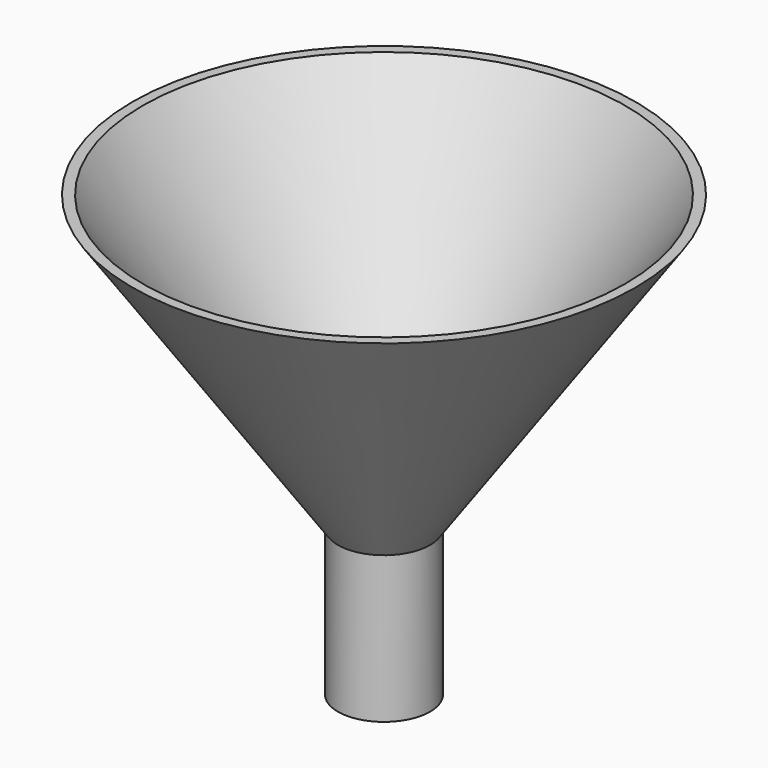
from build123d import *

# Parameters (mm, degrees)
F0_R     = 60
F2_R     = 11
F4_DEPTH = 35
F5_T     = -2


with BuildPart() as f3:
    # F0 (on Top) → F3 section 0
    with BuildSketch(Plane.XY):
        Circle(F0_R)
    # F2 (on offset) → F3 section 1
    with BuildSketch(Plane.XY.offset(-70)):
        Circle(F2_R)
    loft()

    # F4 (add): a face of the model
    f4_faces = [f3.faces().sort_by_distance(p)[0] for p in [
        (0, 0, -70),
    ]]
    extrude(f4_faces, amount=F4_DEPTH)

    # F5
    f5_openings = [f3.faces().sort_by_distance(p)[0] for p in [
        (0, 0, 0),
        (0, 0, -105),
    ]]
    offset(amount=F5_T, openings=f5_openings, kind=Kind.INTERSECTION)


solid = f3.part
